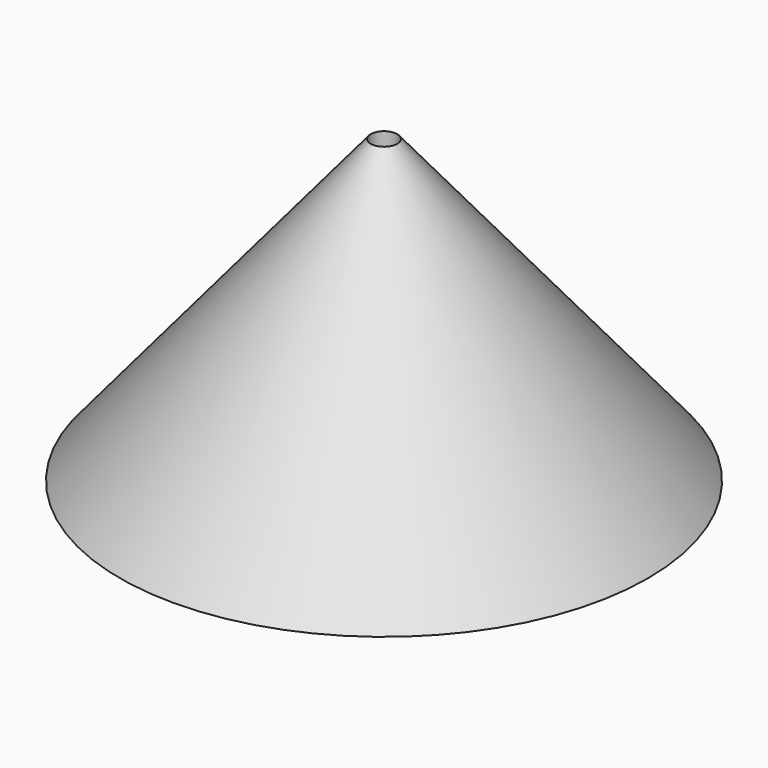
from build123d import *

# Parameters (mm, degrees)
F2_R     = 2.5
F3_DEPTH = 60


with BuildPart() as f1:
    # F0 (on Front) → F1 (revolve)
    with BuildSketch(Plane.XZ):
        Polygon((50, 0), (0, 60), (0, 0), align=None)
    revolve(axis=Axis((0, 0, 30), (0, 0, -1)))

    # F2 (on Top) → F3 (cut)
    with BuildSketch(Plane.XY):
        Circle(F2_R)
    extrude(amount=F3_DEPTH, mode=Mode.SUBTRACT)

    # F4 (on Front) → F5 (revolve, cut)
    with BuildSketch(Plane.XZ):
        Polygon((0, 55), (0, 0), (45, 0), align=None)
    revolve(axis=Axis((0, 0, 27.5), (0, 0, 1)), mode=Mode.SUBTRACT)


solid = f1.part
